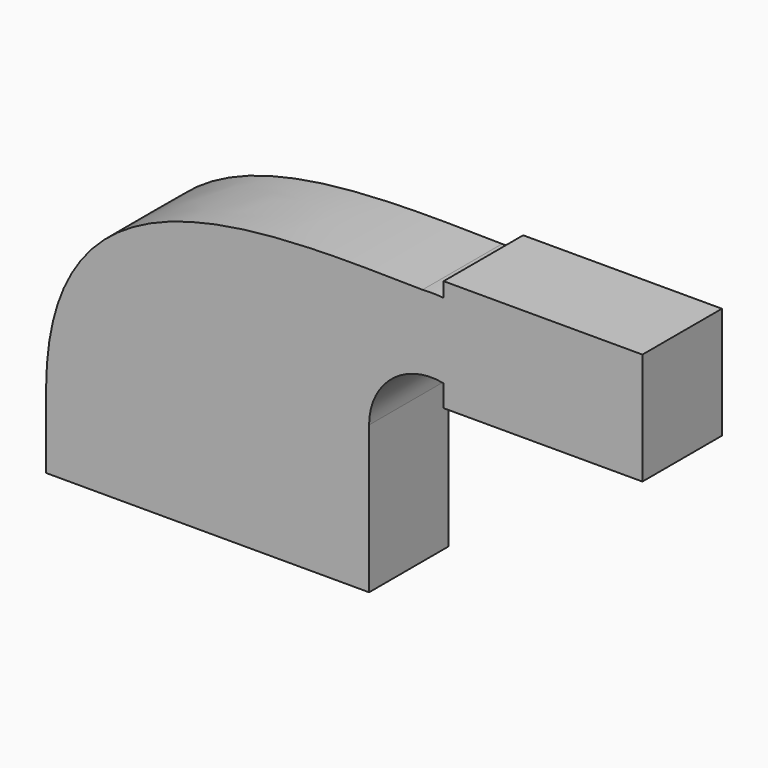
from build123d import *

# Parameters (mm, degrees)
F1_DEPTH = 25.4


with BuildPart() as f1:
    # F0 (on Front) → F1 (new body)
    with BuildSketch(Plane.XZ):
        with BuildLine():
            add(Edge.make_bspline(
                [(-41.275, 9.525), (-40.918331, 65.79854), (12.782067, 63.656478), (54.930287, 62.984836)],
                knots=[0, 0, 0, 0, 110.017253, 110.017253, 110.017253, 110.017253], degree=3))
            Line((-41.275, 9.525), (22.225, 9.525))
            Line((22.225, 9.525), (22.225, 28.130446))
            ThreePointArc((22.225, 28.130446), (31.681597, 52.028481), (54.930287, 62.984836))
        make_face()
        Polygon((22.225, 9.525), (-41.275, 9.525), (-41.275, -9.525), (41.275, -9.525), (41.275, 9.525), align=None)
        with BuildLine():
            Line((22.225, 28.130446), (22.225, 9.525))
            Line((22.225, 9.525), (41.275, 9.525))
            Line((41.275, 9.525), (41.275, 28.130446))
            ThreePointArc((41.275, 28.130446), (47.109768, 40.427169), (60.325, 43.684706))
            Line((60.325, 43.684706), (60.325, 62.910829))
            add(Edge.make_bspline(
                [(54.930287, 62.984836), (56.751848, 62.955809), (58.551832, 62.929529), (60.325, 62.910829)],
                knots=[110.017253, 110.017253, 110.017253, 110.017253, 114.771977, 114.771977, 114.771977, 114.771977], degree=3))
            ThreePointArc((54.930287, 62.984836), (31.681597, 52.028481), (22.225, 28.130446))
        make_face()
        with BuildLine():
            ThreePointArc((60.325, 62.910829), (57.629075, 63.05216), (54.930287, 62.984836))
            add(Edge.make_bspline(
                [(54.930287, 62.984836), (56.751848, 62.955809), (58.551832, 62.929529), (60.325, 62.910829)],
                knots=[110.017253, 110.017253, 110.017253, 110.017253, 114.771977, 114.771977, 114.771977, 114.771977], degree=3))
        make_face()
        Polygon((85.720036, 62.910829), (60.325, 62.910829), (60.325, 43.684706), (60.325, 38.1), (85.687317, 38.1), align=None)
        Polygon((60.325, 66.675), (60.325, 62.910829), (85.720036, 62.910829), (85.725, 66.675), align=None)
        Polygon((85.725, 66.675), (85.720036, 62.910829), (85.687317, 38.1), (111.125, 38.1), (111.125, 66.675), align=None)
    extrude(amount=F1_DEPTH)


solid = f1.part
